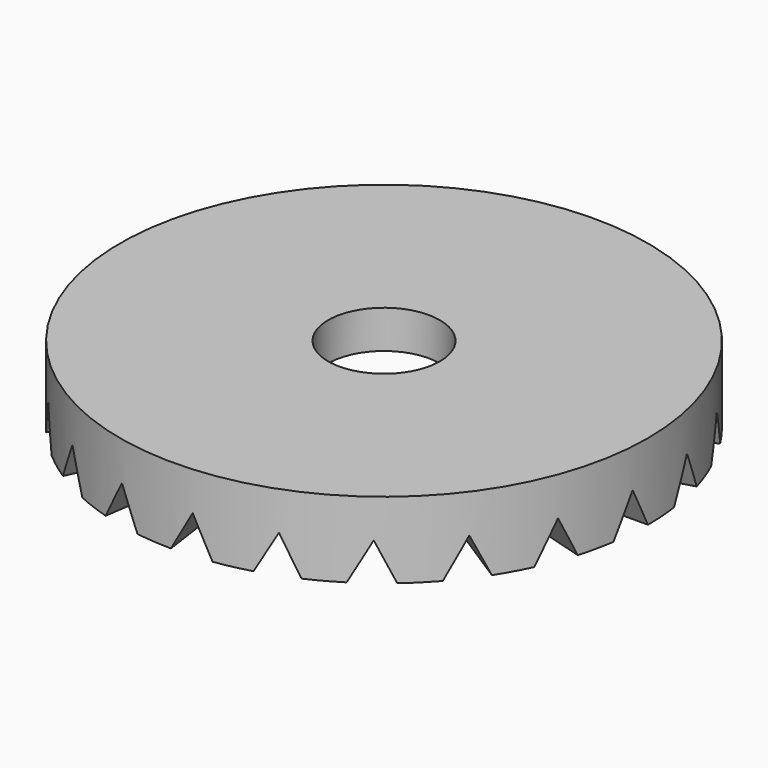
from build123d import *

# Parameters (mm, degrees)
SKETCH003_R        = 34.629948
PAD001_DEPTH       = 10
SKETCH004_R        = 21.305657
POCKET_DEPTH       = 5
SKETCH005_R        = 7.329797
POCKET001_DEPTH    = 11
POCKET002_DEPTH    = 38
POLARPATTERN_COUNT = 22


with BuildPart() as part:
    # Sketch003 → Pad001 (new body)
    with BuildSketch(Plane.XY):
        Circle(SKETCH003_R)
    extrude(amount=PAD001_DEPTH)

    # Sketch004 → Pocket (cut)
    with BuildSketch(Plane.XY):
        Circle(SKETCH004_R)
    extrude(amount=POCKET_DEPTH, mode=Mode.SUBTRACT)

    # Sketch005 → Pocket001 (cut)
    with BuildSketch(Plane.XY):
        Circle(SKETCH005_R)
    extrude(amount=POCKET001_DEPTH, mode=Mode.SUBTRACT)

    # Sketch006 → Pocket002 (cut)
    with BuildSketch(Plane.YZ):
        Polygon((0, 0), (2.410471, 4.960438), (5.179447, 0), align=None)
    pocket002 = extrude(amount=-POCKET002_DEPTH, mode=Mode.SUBTRACT)

    # PolarPattern: Pocket002 ×22 about axis
    polarpattern_axis = Axis((0, 0, 0), (0, 0, 1))
    for i in range(1, POLARPATTERN_COUNT):
        add(pocket002.rotate(polarpattern_axis, i * 360 / POLARPATTERN_COUNT), mode=Mode.SUBTRACT)


solid = part.part
